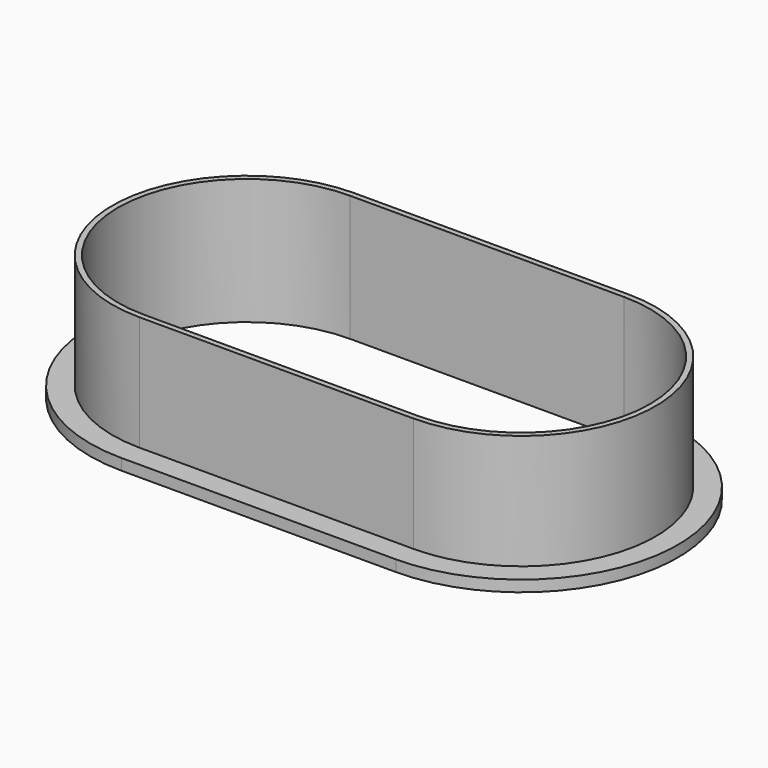
from build123d import *

# Parameters (mm, degrees)
F1_DEPTH = 2
F2_DEPTH = 20.5


with BuildPart() as f1:
    # F0 (on Top) → F1 (new body)
    with BuildSketch(Plane.XY):
        with BuildLine():
            Line((49, 28), (0, 28))
            ThreePointArc((0, 28), (-28, 0), (0, -28))
            Line((0, -28), (49, -28))
            ThreePointArc((49, -28), (77, 0), (49, 28))
        make_face()
        with BuildLine():
            ThreePointArc((0, -24), (-24, 0), (0, 24))
            Line((0, 24), (49, 24))
            ThreePointArc((49, 24), (73, 0), (49, -24))
            Line((49, -24), (0, -24))
        make_face(mode=Mode.SUBTRACT)
        with BuildLine():
            Line((49, 24), (0, 24))
            ThreePointArc((0, 24), (-24, 0), (0, -24))
            Line((0, -24), (49, -24))
            ThreePointArc((49, -24), (73, 0), (49, 24))
        make_face()
        with BuildLine():
            ThreePointArc((0, -23), (-23, 0), (0, 23))
            Line((0, 23), (49, 23))
            ThreePointArc((49, 23), (72, 0), (49, -23))
            Line((49, -23), (0, -23))
        make_face(mode=Mode.SUBTRACT)
    extrude(amount=-F1_DEPTH)

    # F0 (on Top) → F2 (join)
    with BuildSketch(Plane.XY):
        with BuildLine():
            Line((49, 24), (0, 24))
            ThreePointArc((0, 24), (-24, 0), (0, -24))
            Line((0, -24), (49, -24))
            ThreePointArc((49, -24), (73, 0), (49, 24))
        make_face()
        with BuildLine():
            ThreePointArc((0, -23), (-23, 0), (0, 23))
            Line((0, 23), (49, 23))
            ThreePointArc((49, 23), (72, 0), (49, -23))
            Line((49, -23), (0, -23))
        make_face(mode=Mode.SUBTRACT)
    extrude(amount=F2_DEPTH)


solid = f1.part
